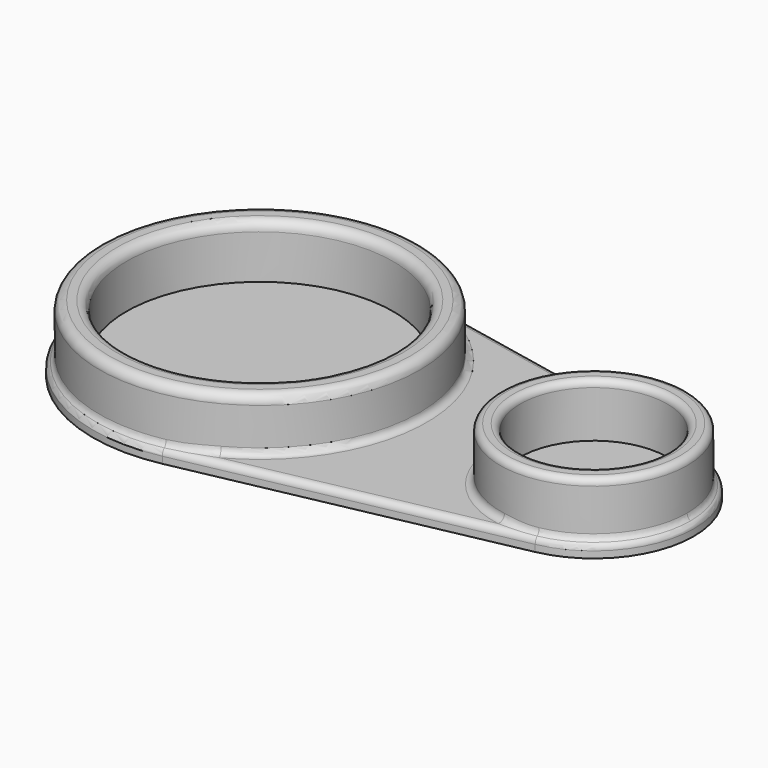
from build123d import *

# Parameters (mm, degrees)
PAD_DEPTH     = 2
FILLET_R      = 1
SKETCH001_R   = 24
SKETCH001_R_2 = 20
SKETCH001_R_3 = 14
SKETCH001_R_4 = 11
PAD001_DEPTH  = 8
FILLET001_R   = 1
FILLET002_R   = 1
FILLET003_R   = 1.4
FILLET004_R   = 1


with BuildPart() as part:
    # Sketch → Pad (new body)
    with BuildSketch(Plane.XY):
        with BuildLine():
            Line((-25.000041, 24.494906), (22.999975, 14.696943))
            ThreePointArc((22.999975, -14.696943), (35, 0), (22.999975, 14.696943))
            Line((-25.000041, -24.494906), (22.999975, -14.696943))
            ThreePointArc((-25.000041, 24.494906), (-55, 0), (-25.000041, -24.494906))
        make_face()
    extrude(amount=PAD_DEPTH)

    # Fillet
    fillet_edges = [part.edges().sort_by_distance(p)[0] for p in [
        (-55, 0, 2),
        (-1.000033, -19.595925, 2),
        (35, 0, 2),
        (-1.000033, 19.595925, 2),
    ]]
    fillet(fillet_edges, radius=FILLET_R)

    # Sketch001 (on Face8 of Fillet) → Pad001 (join)
    with BuildSketch(Plane.XY.offset(2)):
        with Locations((-30, 0)):
            Circle(SKETCH001_R)
        with Locations((-30, 0)):
            Circle(SKETCH001_R_2, mode=Mode.SUBTRACT)
        with Locations((20, 0)):
            Circle(SKETCH001_R_3)
        with Locations((20, 0)):
            Circle(SKETCH001_R_4, mode=Mode.SUBTRACT)
    extrude(amount=PAD001_DEPTH)

    # Fillet001
    fillet001_edges = [part.edges().sort_by_distance(p)[0] for p in [
        (-11.409692, 15.178948, 2),
        (-54, 0, 2),
        (-11.409692, -15.178948, 2),
    ]]
    fillet(fillet001_edges, radius=FILLET001_R)

    # Fillet002
    fillet002_edges = [part.edges().sort_by_distance(p)[0] for p in [
        (6, 1e-06, 2),
        (30.844346, 8.854387, 2),
        (30.844346, -8.854387, 2),
    ]]
    fillet(fillet002_edges, radius=FILLET002_R)

    # Fillet003
    fillet003_edges = [part.edges().sort_by_distance(p)[0] for p in [
        (-54, 0, 10),
        (-50, 0, 10),
    ]]
    fillet(fillet003_edges, radius=FILLET003_R)

    # Fillet004
    fillet004_edges = [part.edges().sort_by_distance(p)[0] for p in [
        (6, 0, 10),
        (9, 0, 10),
    ]]
    fillet(fillet004_edges, radius=FILLET004_R)


solid = part.part
